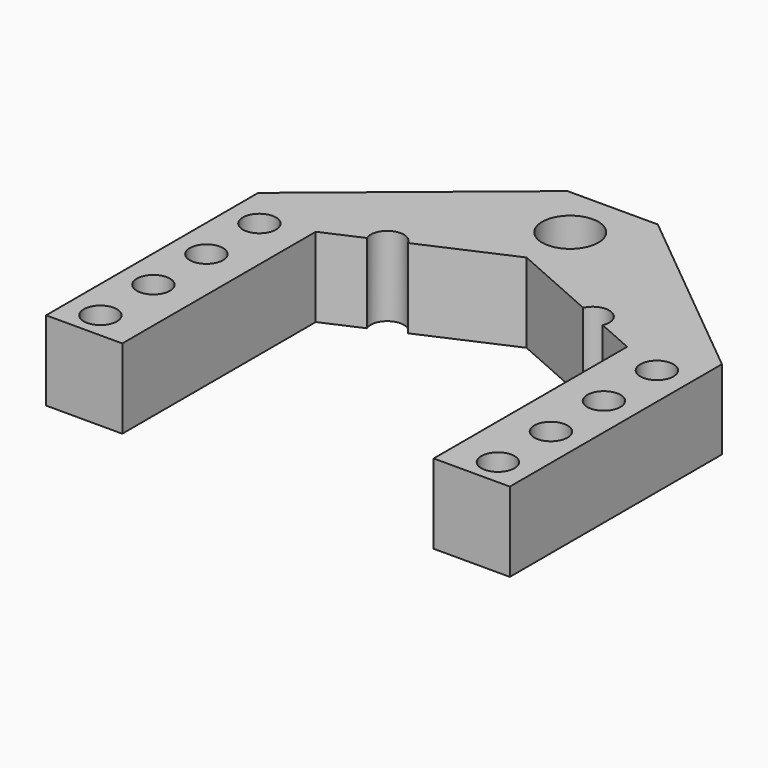
from build123d import *

# Parameters (mm, degrees)
F0_R     = 2.5
F0_R_2   = 12.5
F0_R_3   = 4.25
F1_DEPTH = 12
F2_R     = 2.5
F2_R_2   = 12.5
F3_DEPTH = 25


with BuildPart() as f1:
    # F0 (on Top) → F1 (new body)
    with BuildSketch(Plane.XY):
        Polygon((-6.812499, 38.15), (-35, 15.017077), (-35, -25), (35, -25), (35, 15.017077), (6.812499, 38.15), align=None)
        with Locations((-30, -21)):
            Circle(F0_R, mode=Mode.SUBTRACT)
        with Locations((-30, -11)):
            Circle(F0_R, mode=Mode.SUBTRACT)
        with Locations((-15.5, -15)):
            Circle(F0_R, mode=Mode.SUBTRACT)
        with Locations((-30, -1)):
            Circle(F0_R, mode=Mode.SUBTRACT)
        with Locations((15.5, -15)):
            Circle(F0_R, mode=Mode.SUBTRACT)
        with Locations((30, -21)):
            Circle(F0_R, mode=Mode.SUBTRACT)
        with Locations((30, -11)):
            Circle(F0_R, mode=Mode.SUBTRACT)
        Circle(F0_R_2, mode=Mode.SUBTRACT)
        with Locations((30, -1)):
            Circle(F0_R, mode=Mode.SUBTRACT)
        with Locations((-30, 9)):
            Circle(F0_R, mode=Mode.SUBTRACT)
        with Locations((-15.5, 15)):
            Circle(F0_R, mode=Mode.SUBTRACT)
        with Locations((15.5, 15)):
            Circle(F0_R, mode=Mode.SUBTRACT)
        with Locations((30, 9)):
            Circle(F0_R, mode=Mode.SUBTRACT)
        with Locations((0, 30.15)):
            Circle(F0_R_3, mode=Mode.SUBTRACT)
    extrude(amount=F1_DEPTH)

    # F2 (on face) → F3 (cut)
    with BuildSketch(Plane.XY.offset(12)):
        with BuildLine():
            Line((-23.5, 11.505988), (-23.5, -25))
            Line((-23.5, -25), (23.5, -25))
            Line((23.5, -25), (23.5, 11.505988))
            Line((23.5, 11.505988), (17.802461, 14.026001))
            ThreePointArc((17.802461, 14.026001), (14.488753, 12.713654), (13.230371, 16.048229))
            Line((13.230371, 16.048229), (0, 21.9))
            Line((0, 21.9), (-13.230371, 16.048229))
            ThreePointArc((-13.230371, 16.048229), (-13.058272, 15.536622), (-13, 15))
            ThreePointArc((-13, 15), (-15.003085, 12.549882), (-17.802461, 14.026001))
            Line((-17.802461, 14.026001), (-23.5, 11.505988))
        make_face()
        with Locations((-15.5, -15)):
            Circle(F2_R, mode=Mode.SUBTRACT)
        with Locations((15.5, -15)):
            Circle(F2_R, mode=Mode.SUBTRACT)
        Circle(F2_R_2, mode=Mode.SUBTRACT)
    extrude(amount=-F3_DEPTH, mode=Mode.SUBTRACT)


solid = f1.part
